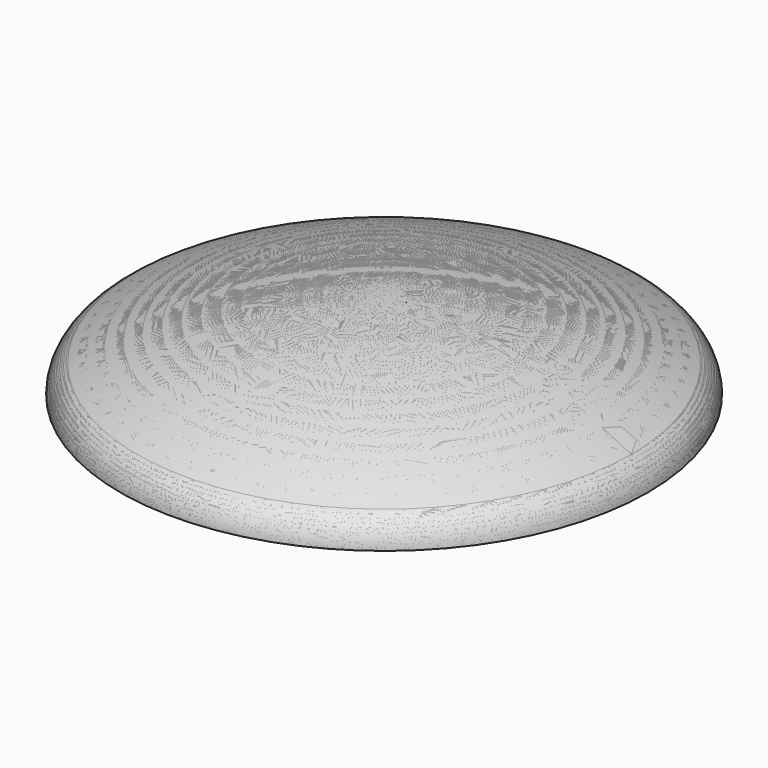
from build123d import *


with BuildPart() as innershell:
    # Sketch001 → Revolution (revolve)
    with BuildSketch(Plane(origin=(0, 0, 0), x_dir=(0, 0, -1), z_dir=(0, -1, 0))):
        with BuildLine():
            Line((0, 0), (0, 264))
            Line((0, 264), (0, 290))
            ThreePointArc((0, 290), (-9.710675, 288.118516), (-18.015928, 282.746369))
            ThreePointArc((-18.015928, 282.746369), (-72.904514, 146.082599), (-91.602568, 0))
            Line((0, 0), (-91.602568, 0))
        make_face()
    revolve(axis=Axis((0, 0, 0), (0, 0, -1)))


with BuildPart() as model:
    # Sketch → Revolution001 (revolve)
    with BuildSketch(Plane(origin=(0, 0, 0), x_dir=(0, 0, -1), z_dir=(0, -1, 0))):
        with BuildLine():
            Line((0, 0), (-101.602568, 0))
            ThreePointArc((-31.812563, 280.851138), (-83.893731, 144.696239), (-101.602568, 0))
            ThreePointArc((0, 300), (-18.565547, 294.843484), (-31.812563, 280.851138))
            Line((0, 264), (0, 300))
            Line((0, 0), (0, 264))
        make_face()
    revolve(axis=Axis((0, 0, 0), (0, 0, -1)))

    # Cut: cut InnerShell
    add(innershell.part, mode=Mode.SUBTRACT)


with BuildPart() as displacedmodel:
    # Sketch002 → Revolution002 (revolve)
    with BuildSketch(Plane(origin=(0, 0, 0), x_dir=(0, 0, -1), z_dir=(0, -1, 0))):
        with BuildLine():
            Line((0, 0), (-101.602568, 0))
            ThreePointArc((-31.812576, 280.851114), (-83.893734, 144.696226), (-101.602568, 0))
            ThreePointArc((0, 300), (-18.565558, 294.843477), (-31.812576, 280.851114))
            Line((0, 264), (0, 300))
            Line((0, 0), (0, 264))
        make_face()
    revolve(axis=Axis((0, 0, 0), (0, 0, -1)))


solid = Compound([model.part, displacedmodel.part])
